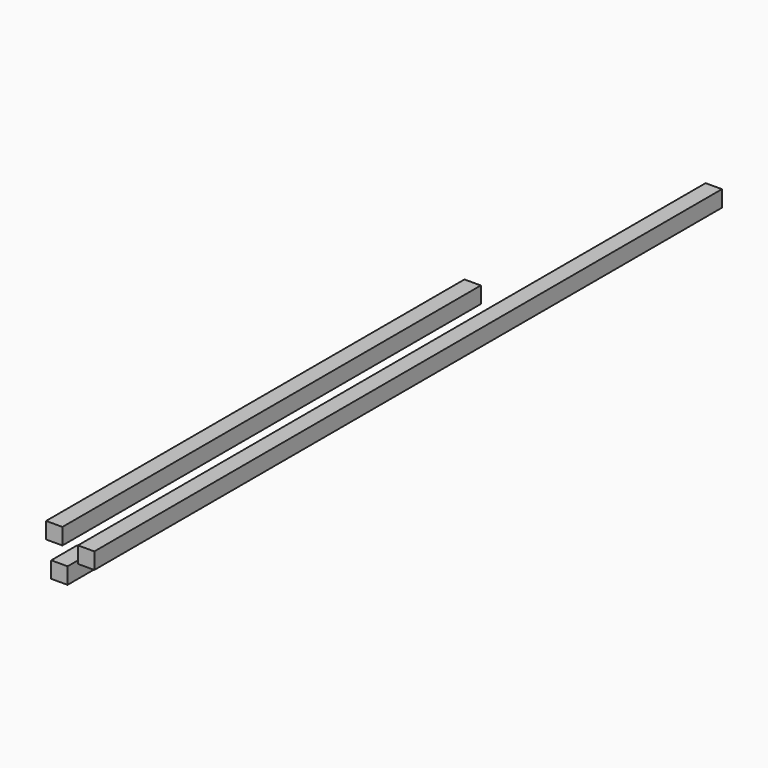
from build123d import *

# Parameters (mm, degrees)
F0_W     = 38.1
F0_H     = 38.1
F1_DEPTH = 1828.8
F2_W     = 38.1
F2_H     = 38.1
F3_DEPTH = 1219.2
F4_DEPTH = 76.2


with BuildPart() as f1:
    # F0 (on Front) → F1 (new body)
    with BuildSketch(Plane.XZ):
        with Locations((19.05, 19.05)):
            Rectangle(F0_W, F0_H)
    extrude(amount=-F1_DEPTH)


with BuildPart() as f3:
    # F2 (on Front) → F3 (new body)
    with BuildSketch(Plane.XZ):
        with Locations((-55.322108, 45.04293)):
            Rectangle(F2_W, F2_H)
    extrude(amount=-F3_DEPTH)


with BuildPart() as f4:
    # F2 (on Front) → F4 (new body)
    with BuildSketch(Plane.XZ):
        with Locations((-43.302466, -31.837431)):
            Rectangle(F2_W, F2_H)
    extrude(amount=-F4_DEPTH)


solid = Compound([f1.part, f3.part, f4.part])
